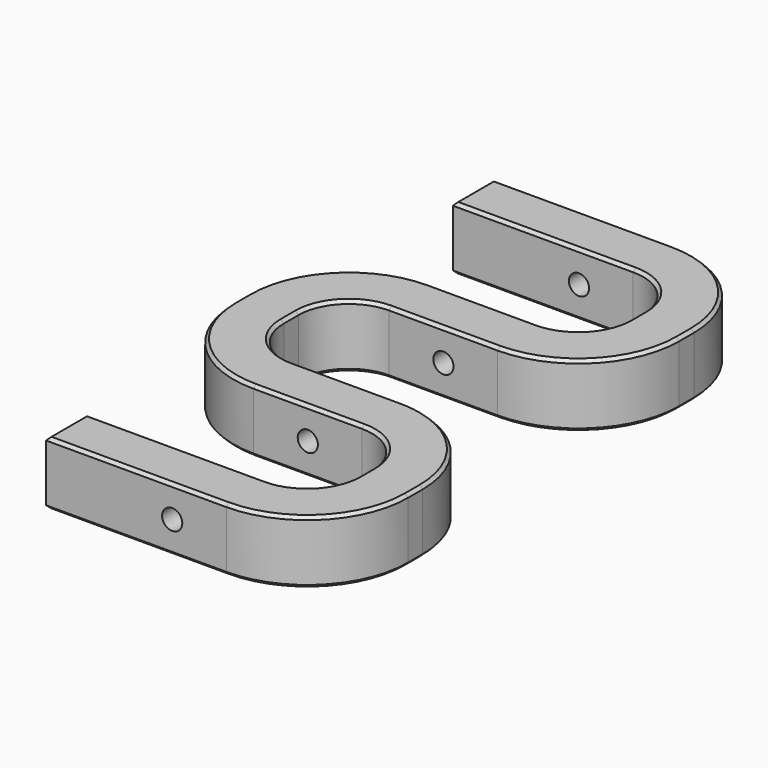
from build123d import *

# Parameters (mm, degrees)
F1_DEPTH = 3.175
F4_D     = 1.016
F5_SIZE  = 0.1524


with BuildPart() as f1:
    # F0 (on Top) → F1 (new body)
    with BuildSketch(Plane.XY):
        with BuildLine():
            ThreePointArc((5.2705, -0.4572), (4.526551, -2.253251), (2.7305, -2.9972))
            Line((2.7305, -2.9972), (1.0795, -2.9972))
            Line((1.0795, -2.9972), (-1.0795, -2.9972))
            Line((-1.0795, -2.9972), (-2.7305, -2.9972))
            ThreePointArc((-2.7305, -2.9972), (-6.322602, -4.485098), (-7.8105, -8.0772))
            Line((-7.8105, -8.0772), (-7.8105, -8.9916))
            ThreePointArc((-7.8105, -8.9916), (-6.322602, -12.583702), (-2.7305, -14.0716))
            Line((-2.7305, -14.0716), (-1.0795, -14.0716))
            Line((-1.0795, -14.0716), (1.0795, -14.0716))
            Line((1.0795, -14.0716), (2.7305, -14.0716))
            ThreePointArc((2.7305, -14.0716), (4.526551, -14.815549), (5.2705, -16.6116))
            Line((5.2705, -16.6116), (5.2705, -17.526))
            ThreePointArc((5.2705, -17.526), (4.526551, -19.322051), (2.7305, -20.066))
            Line((2.7305, -20.066), (1.0795, -20.066))
            Line((1.0795, -20.066), (-1.0795, -20.066))
            Line((-1.0795, -20.066), (-6.35, -20.066))
            Line((-6.35, -20.066), (-6.35, -22.606))
            Line((-6.35, -22.606), (2.7305, -22.606))
            ThreePointArc((2.7305, -22.606), (6.322602, -21.118102), (7.8105, -17.526))
            Line((7.8105, -17.526), (7.8105, -16.6116))
            ThreePointArc((7.8105, -16.6116), (6.685893, -13.423925), (3.81, -11.647622))
            ThreePointArc((3.81, -11.647622), (3.273358, -11.560689), (2.7305, -11.5316))
            Line((2.7305, -11.5316), (1.0795, -11.5316))
            Line((1.0795, -11.5316), (-1.0795, -11.5316))
            Line((-1.0795, -11.5316), (-2.7305, -11.5316))
            ThreePointArc((-2.7305, -11.5316), (-4.526551, -10.787651), (-5.2705, -8.9916))
            Line((-5.2705, -8.9916), (-5.2705, -8.0772))
            ThreePointArc((-5.2705, -8.0772), (-4.526551, -6.281149), (-2.7305, -5.5372))
            Line((-2.7305, -5.5372), (-1.0795, -5.5372))
            Line((-1.0795, -5.5372), (1.0795, -5.5372))
            Line((1.0795, -5.5372), (2.7305, -5.5372))
            ThreePointArc((2.7305, -5.5372), (6.322602, -4.049302), (7.8105, -0.4572))
            Line((7.8105, -0.4572), (7.8105, 0.4572))
            ThreePointArc((7.8105, 0.4572), (6.322602, 4.049302), (2.7305, 5.5372))
            Line((2.7305, 5.5372), (-6.35, 5.5372))
            Line((-6.35, 5.5372), (-6.35, 2.9972))
            Line((-6.35, 2.9972), (-1.0795, 2.9972))
            Line((-1.0795, 2.9972), (1.0795, 2.9972))
            Line((1.0795, 2.9972), (2.7305, 2.9972))
            ThreePointArc((2.7305, 2.9972), (4.526551, 2.253251), (5.2705, 0.4572))
            Line((5.2705, 0.4572), (5.2705, -0.4572))
        make_face()
    extrude(amount=F1_DEPTH)

    # F4 (through all)
    with Locations(Plane.XZ.offset(22.606)):
        with Locations((0, 1.5875)):
            Hole(F4_D / 2)

    # F5
    f5_edges = [f1.edges().sort_by_distance(p)[0] for p in [
        (4.526551, 2.253251, 3.175),
        (5.2705, 0, 3.175),
        (4.526551, -2.253251, 3.175),
        (0, -2.9972, 3.175),
        (-6.322602, -4.485098, 3.175),
        (-7.8105, -8.5344, 3.175),
        (-6.322602, -12.583702, 3.175),
        (0, -14.0716, 3.175),
        (4.526551, -14.815549, 3.175),
        (5.2705, -17.0688, 3.175),
        (4.526551, -19.322051, 3.175),
        (-1.80975, -20.066, 3.175),
        (-6.35, -21.336, 3.175),
        (-1.80975, -22.606, 3.175),
        (6.322602, -21.118102, 3.175),
        (7.8105, -17.0688, 3.175),
        (6.322602, -13.019498, 3.175),
        (0, -11.5316, 3.175),
        (-4.526551, -10.787651, 3.175),
        (-5.2705, -8.5344, 3.175),
        (-4.526551, -6.281149, 3.175),
        (0, -5.5372, 3.175),
        (6.322602, -4.049302, 3.175),
        (7.8105, 0, 3.175),
        (6.322602, 4.049302, 3.175),
        (-1.80975, 5.5372, 3.175),
        (-6.35, 4.2672, 3.175),
        (-1.80975, 2.9972, 3.175),
        (4.526551, 2.253251, 0),
        (5.2705, 0, 0),
        (4.526551, -2.253251, 0),
        (0, -2.9972, 0),
        (-6.322602, -4.485098, 0),
        (-7.8105, -8.5344, 0),
        (-6.322602, -12.583702, 0),
        (0, -14.0716, 0),
        (4.526551, -14.815549, 0),
        (5.2705, -17.0688, 0),
        (4.526551, -19.322051, 0),
        (-1.80975, -20.066, 0),
        (-6.35, -21.336, 0),
        (-1.80975, -22.606, 0),
        (6.322602, -21.118102, 0),
        (7.8105, -17.0688, 0),
        (6.322602, -13.019498, 0),
        (0, -11.5316, 0),
        (-4.526551, -10.787651, 0),
        (-5.2705, -8.5344, 0),
        (-4.526551, -6.281149, 0),
        (0, -5.5372, 0),
        (6.322602, -4.049302, 0),
        (7.8105, 0, 0),
        (6.322602, 4.049302, 0),
        (-1.80975, 5.5372, 0),
        (-6.35, 4.2672, 0),
        (-1.80975, 2.9972, 0),
    ]]
    chamfer(f5_edges, length=F5_SIZE)


solid = f1.part
